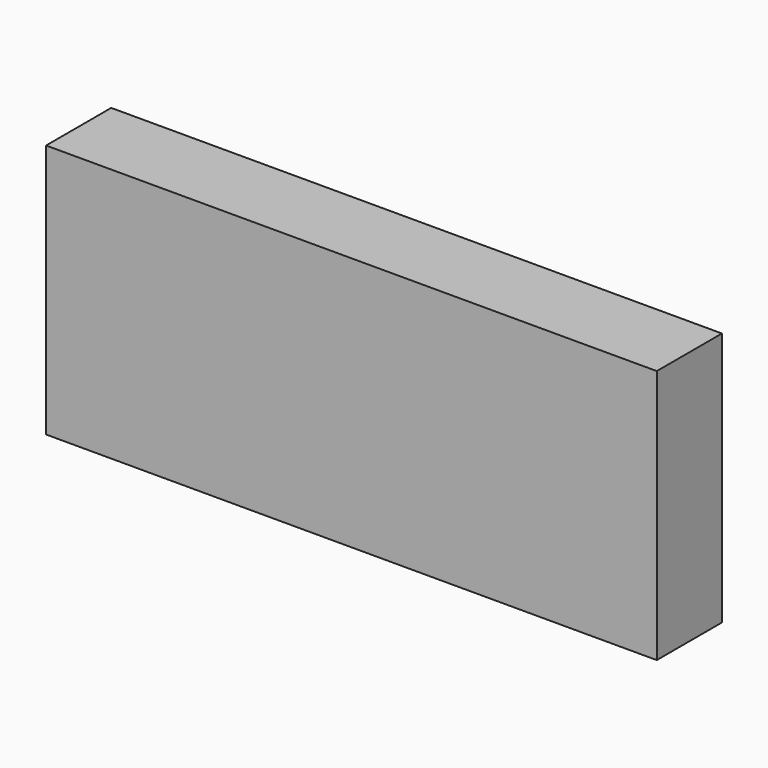
from build123d import *

# Parameters (mm, degrees)
SKETCH_W      = 120
SKETCH_H      = 16
EXTRUDE_DEPTH = 50


with BuildPart() as part:
    # Sketch → Extrude (new body)
    with BuildSketch(Plane.XY):
        Rectangle(SKETCH_W, SKETCH_H)
    extrude(amount=EXTRUDE_DEPTH)


solid = part.part
